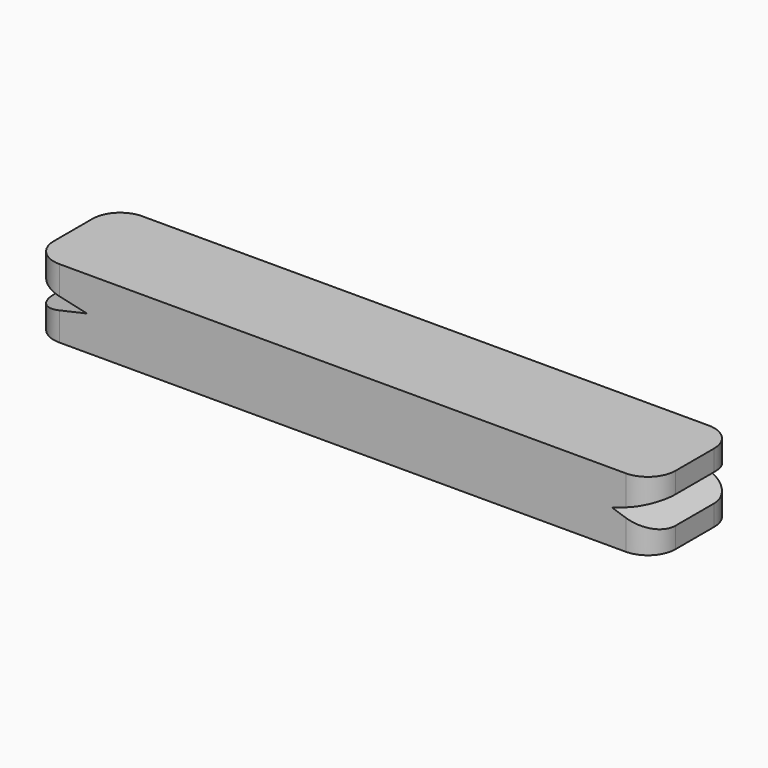
from build123d import *

# Parameters (mm, degrees)
F0_W     = 114.3
F0_H     = 12.7
F1_DEPTH = 19.05
F3_R     = 5.08
F4_DEPTH = 19.05
F5_R     = 5.08
F7_DEPTH = 25.4
F8_R     = 5.08


with BuildPart() as f1:
    # F0 (on Front) → F1 (new body)
    with BuildSketch(Plane.XZ):
        with Locations((57.15, 6.35)):
            Rectangle(F0_W, F0_H)
    extrude(amount=-F1_DEPTH)

    # F3
    f3_edges = [f1.edges().sort_by_distance(p)[0] for p in [
        (0, 0, 6.35),
    ]]
    fillet(f3_edges, radius=F3_R)

    # F2 (on face) → F4 (cut)
    with BuildSketch(Plane.XZ):
        Polygon((10.16, 6.35), (0, 8.636), (0, 4.064), align=None)
    extrude(amount=-F4_DEPTH, mode=Mode.SUBTRACT)

    # F5
    f5_edges = [f1.edges().sort_by_distance(p)[0] for p in [
        (0, 19.05, 10.668),
        (0, 19.05, 2.032),
    ]]
    fillet(f5_edges, radius=F5_R)

    # F6 (on face) → F7 (cut)
    with BuildSketch(Plane.XZ):
        Polygon((114.3, 3.81), (114.3, 8.89), (106.68, 6.35), align=None)
    extrude(amount=-F7_DEPTH, mode=Mode.SUBTRACT)

    # F8
    f8_edges = [f1.edges().sort_by_distance(p)[0] for p in [
        (114.3, 0, 10.795),
        (114.3, 0, 1.905),
        (114.3, 19.05, 10.795),
        (114.3, 19.05, 1.905),
    ]]
    fillet(f8_edges, radius=F8_R)


solid = f1.part
